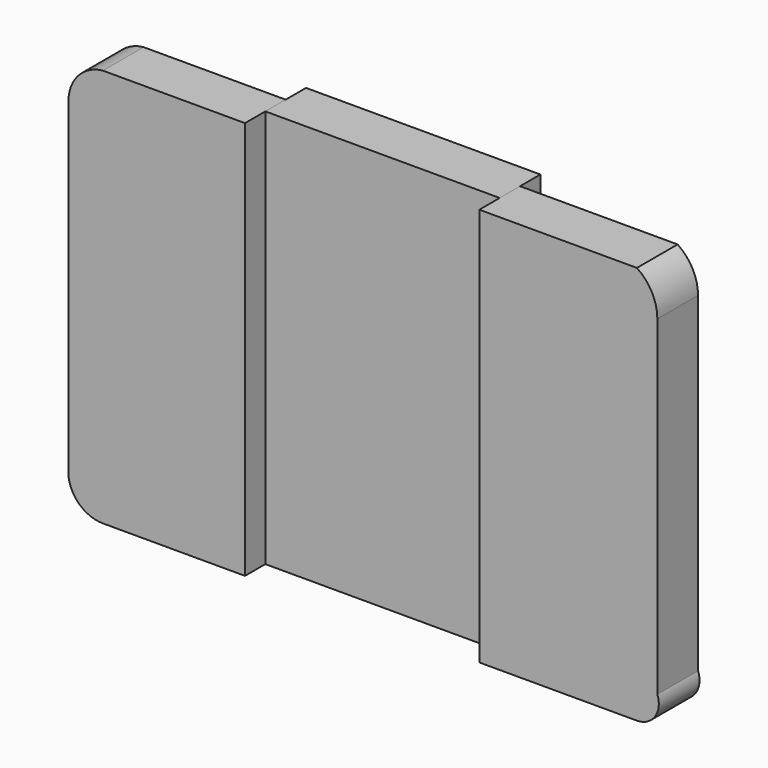
from build123d import *

# Parameters (mm, degrees)
F1_DEPTH = 6.35
F0_W     = 58.522116
F0_H     = 99.53431
F2_DEPTH = 12.7


with BuildPart() as f1:
    # F0 (on Front) → F1 (new body, symmetric)
    with BuildSketch(Plane.XZ):
        with BuildLine():
            ThreePointArc((-53.570319, 58.538698), (-59.694693, 55.46948), (-62.163878, 49.079552))
            Line((-62.163878, 49.079552), (-62.163878, -33.470448))
            ThreePointArc((-62.163878, -33.470448), (-59.281653, -38.848418), (-53.570319, -40.995612))
            Line((-53.570319, -40.995612), (-18.085852, -40.995612))
            Line((-18.085852, -40.995612), (-18.085852, 58.538698))
            Line((-18.085852, 58.538698), (-53.570319, 58.538698))
        make_face()
        with BuildLine():
            Line((79.779681, 58.538698), (40.436264, 58.538698))
            Line((40.436264, 58.538698), (40.436264, -40.995612))
            Line((40.436264, -40.995612), (79.779681, -40.995612))
            ThreePointArc((79.779681, -40.995612), (84.292748, -38.618896), (84.886264, -33.552903))
            Line((84.886264, -33.552903), (84.886264, 48.997097))
            ThreePointArc((84.886264, 48.997097), (83.529337, 54.408182), (79.779681, 58.538698))
        make_face()
    extrude(amount=F1_DEPTH, both=True)


with BuildPart() as f2:
    # F0 (on Front) → F2 (new body)
    with BuildSketch(Plane.XZ):
        with Locations((11.175206, 8.771543)):
            Rectangle(F0_W, F0_H)
    extrude(amount=-F2_DEPTH)


solid = Compound([f1.part, f2.part])
